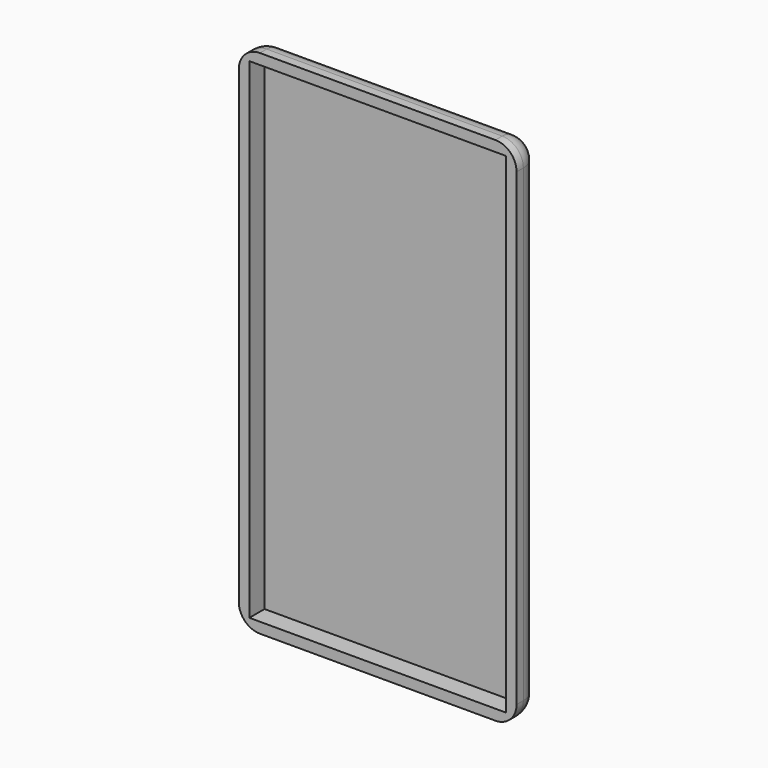
from build123d import *

# Parameters (mm, degrees)
F0_W     = 66.802
F0_H     = 122.936
F1_DEPTH = 7.112
F2_T     = -2.54
F3_R     = 5.08


with BuildPart() as f1:
    # F0 (on Front) → F1 (new body)
    with BuildSketch(Plane.XZ):
        Rectangle(F0_W, F0_H)
    extrude(amount=F1_DEPTH)

    # F2
    f2_openings = [f1.faces().sort_by_distance(p)[0] for p in [
        (0, -7.112, 0),
    ]]
    offset(amount=F2_T, openings=f2_openings)

    # F3
    f3_edges = [f1.edges().sort_by_distance(p)[0] for p in [
        (33.401, -3.556, 61.468),
        (33.401, -3.556, -61.468),
        (-33.401, -3.556, -61.468),
        (-33.401, -3.556, 61.468),
        (-33.401, 0, 0),
        (0, 0, 61.468),
        (33.401, 0, 0),
        (0, 0, -61.468),
    ]]
    fillet(f3_edges, radius=F3_R)


solid = f1.part
